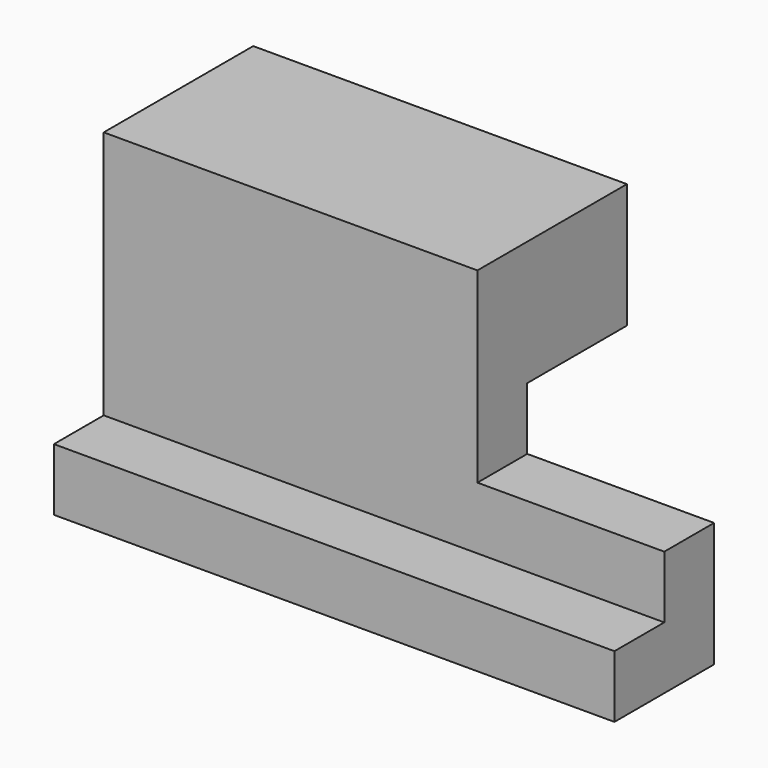
from build123d import *

# Parameters (mm, degrees)
F1_DEPTH = 114.3
F2_DEPTH = 76.2


with BuildPart() as f1:
    # F0 (on Right) → F1 (new body)
    with BuildSketch(Plane.YZ):
        Polygon((-26.555317, 9.640886), (-39.255317, 9.640886), (-39.255317, -3.059114), (-13.855317, -3.059114), (-13.855317, 22.340886), (-26.555317, 22.340886), align=None)
    extrude(amount=F1_DEPTH)

    # F0 (on Right) → F2 (join)
    with BuildSketch(Plane.YZ):
        Polygon((-26.555317, 9.640886), (-39.255317, 9.640886), (-39.255317, -3.059114), (-13.855317, -3.059114), (-13.855317, 22.340886), (-26.555317, 22.340886), align=None)
        Polygon((-26.555317, 60.440886), (-26.555317, 22.340886), (-13.855317, 22.340886), (-13.855317, 35.040886), (11.544683, 35.040886), (11.544683, 60.440886), align=None)
    extrude(amount=F2_DEPTH)


solid = f1.part
